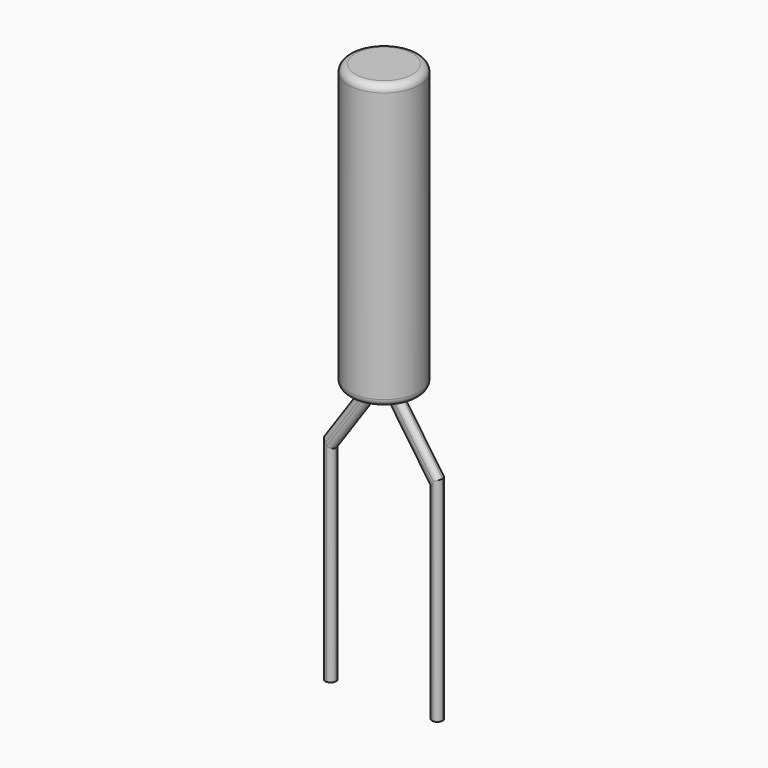
from build123d import *

# Parameters (mm, degrees)
PAD_DEPTH = 0.075
FILLET_R  = 0.07485


with BuildPart() as revolution:
    # Sketch002 → Revolution (revolve)
    with BuildSketch(Plane.XZ):
        with BuildLine():
            Line((0.35, 4.97), (0.75, 4.97))
            Line((0.75, 0.97), (0.75, 4.97))
            Line((0.75, 0.97), (0.35, 0.97))
            ThreePointArc((0.25, 1.07), (0.279289, 0.999289), (0.35, 0.97))
            Line((0.25, 1.07), (0.25, 4.87))
            ThreePointArc((0.35, 4.97), (0.279289, 4.940711), (0.25, 4.87))
        make_face()
    revolve(axis=Axis((0.75, 0, 4.97), (0, 0, -1)))


with BuildPart() as fillet_body:
    # Sketch → Pad (new body, symmetric)
    with BuildSketch(Plane.XZ):
        Polygon((0.075, -2.9), (0.075, -0.006066), (0.625, 0.793934), (0.625, 1), (0.475, 1), (0.475, 0.9), (-0.075, 0.1), (-0.075, -2.9), align=None)
        Polygon((0.875, 1), (1.025, 1), (1.025, 0.9), (1.575, 0.1), (1.575, -2.9), (1.425, -2.9), (1.425, -0.006066), (0.875, 0.793934), align=None)
    extrude(amount=PAD_DEPTH, both=True)

    # Fillet
    fillet_edges = [fillet_body.edges().sort_by_distance(p)[0] for p in [
        (0.2, -0.075, 0.5),
        (0.475, -0.075, 0.95),
        (0.625, -0.075, 0.896967),
        (0.35, -0.075, 0.393934),
        (0.075, -0.075, -1.453033),
        (-0.075, -0.075, -1.4),
        (0.075, 0.075, -1.453033),
        (0.35, 0.075, 0.393934),
        (0.625, 0.075, 0.896967),
        (1.15, -0.075, 0.393934),
        (0.875, -0.075, 0.896967),
        (1.425, -0.075, -1.453033),
        (1.575, -0.075, -1.4),
        (1.3, -0.075, 0.5),
        (1.025, -0.075, 0.95),
        (1.025, 0.075, 0.95),
        (1.3, 0.075, 0.5),
        (1.575, 0.075, -1.4),
        (1.425, 0.075, -1.453033),
        (1.15, 0.075, 0.393934),
        (0.875, 0.075, 0.896967),
        (0.475, 0.075, 0.95),
        (-0.075, 0.075, -1.4),
        (0.2, 0.075, 0.5),
    ]]
    fillet(fillet_edges, radius=FILLET_R)


solid = Compound([revolution.part, fillet_body.part])
